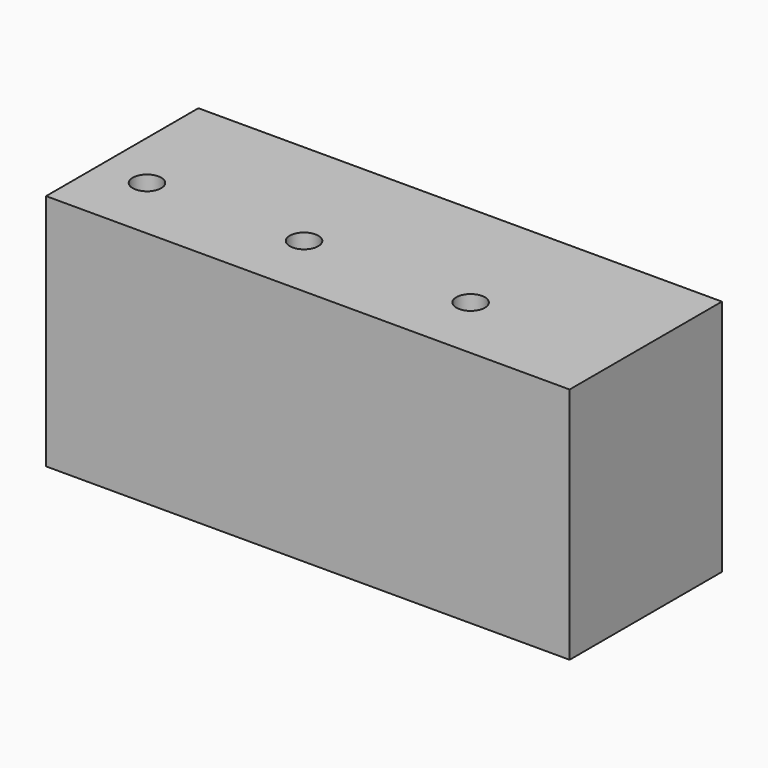
from build123d import *

# Parameters (mm, degrees)
F0_W     = 55
F0_H     = 20
F1_DEPTH = 25
F2_R     = 1.5
F3_DEPTH = 25.001
F4_R     = 1.5
F5_DEPTH = 25.001
F6_R     = 1.5
F7_DEPTH = 25.001


with BuildPart() as f1:
    # F0 (on Top) → F1 (new body)
    with BuildSketch(Plane.XY):
        Rectangle(F0_W, F0_H)
    extrude(amount=F1_DEPTH)

    # F2 (on face) → F3 (cut, through all)
    with BuildSketch(Plane.XY.offset(25)):
        with Locations((-22.5, -3)):
            Circle(F2_R)
    extrude(amount=-F3_DEPTH, mode=Mode.SUBTRACT)

    # F4 (on face) → F5 (cut, through all)
    with BuildSketch(Plane.XY.offset(25)):
        with Locations((-6, -3)):
            Circle(F4_R)
    extrude(amount=-F5_DEPTH, mode=Mode.SUBTRACT)

    # F6 (on face) → F7 (cut, through all)
    with BuildSketch(Plane.XY.offset(25)):
        with Locations((11.5, -3)):
            Circle(F6_R)
    extrude(amount=-F7_DEPTH, mode=Mode.SUBTRACT)


solid = f1.part
